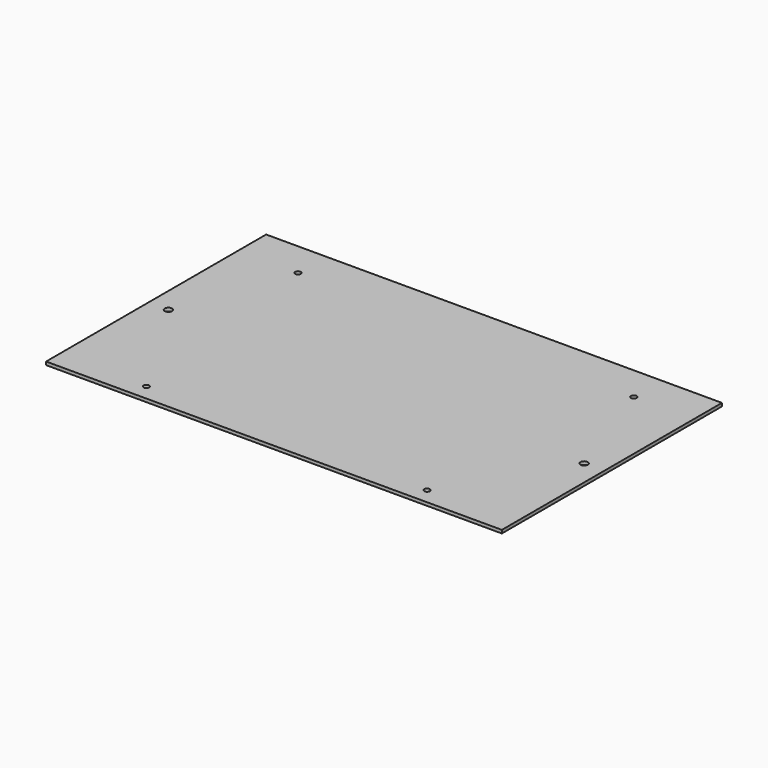
from build123d import *

# Parameters (mm, degrees)
F0_W     = 285
F0_H     = 172
F0_R     = 1.75
F0_R_2   = 2.3
F1_DEPTH = 2


with BuildPart() as f1:
    # F0 (on Top) → F1 (new body)
    with BuildSketch(Plane.XY):
        with Locations((142.5, 86)):
            Rectangle(F0_W, F0_H)
        with Locations((54.75, 10)):
            Circle(F0_R, mode=Mode.SUBTRACT)
        with Locations((12.5, 80)):
            Circle(F0_R_2, mode=Mode.SUBTRACT)
        with Locations((230.25, 10)):
            Circle(F0_R, mode=Mode.SUBTRACT)
        with Locations((272.5, 80)):
            Circle(F0_R_2, mode=Mode.SUBTRACT)
        with Locations((37.5, 150)):
            Circle(F0_R, mode=Mode.SUBTRACT)
        with Locations((247.5, 150)):
            Circle(F0_R, mode=Mode.SUBTRACT)
    extrude(amount=F1_DEPTH)


solid = f1.part
